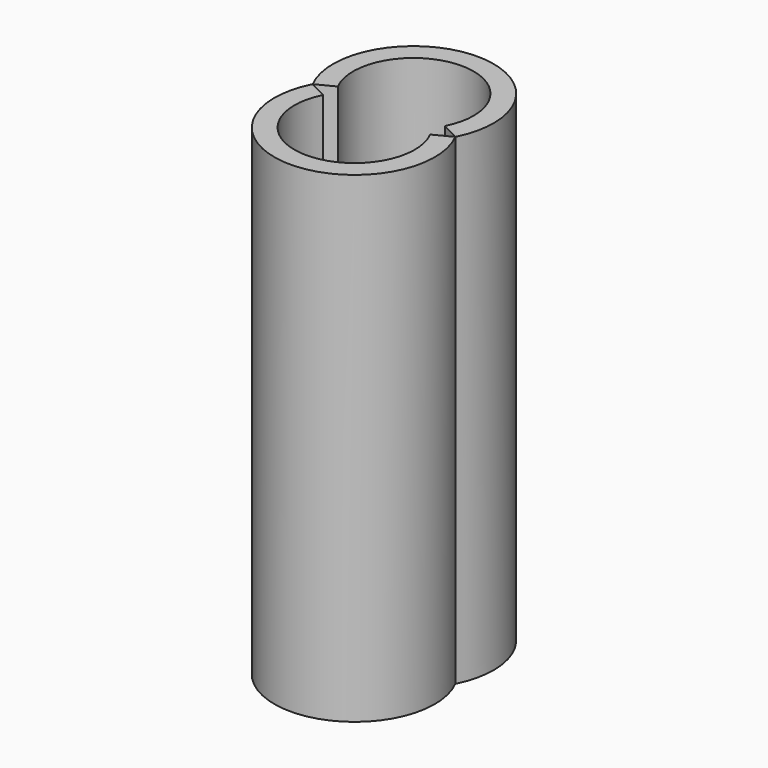
from build123d import *

# Parameters (mm, degrees)
F1_DEPTH = 36


with BuildPart() as f1:
    # F0 (on Top) → F1 (new body)
    with BuildSketch(Plane.XY):
        with BuildLine():
            ThreePointArc((-4, -2.0615528128), (0, 4.5), (4, -2.0615528128))
            Line((4, -2.0615528128), (5.3333333333, -2.7487370837))
            ThreePointArc((5.3333333333, -2.7487370837), (0, 6), (-5.3333333333, -2.7487370837))
            Line((-5.3333333333, -2.7487370837), (-4, -2.0615528128))
        make_face()
    extrude(amount=F1_DEPTH)


with BuildPart() as f3_1:
    # F3: instance of F1
    add(f1.part.mirror(Plane.XZ.offset(2.7487370837)))


solid = Compound([f1.part, f3_1.part])
